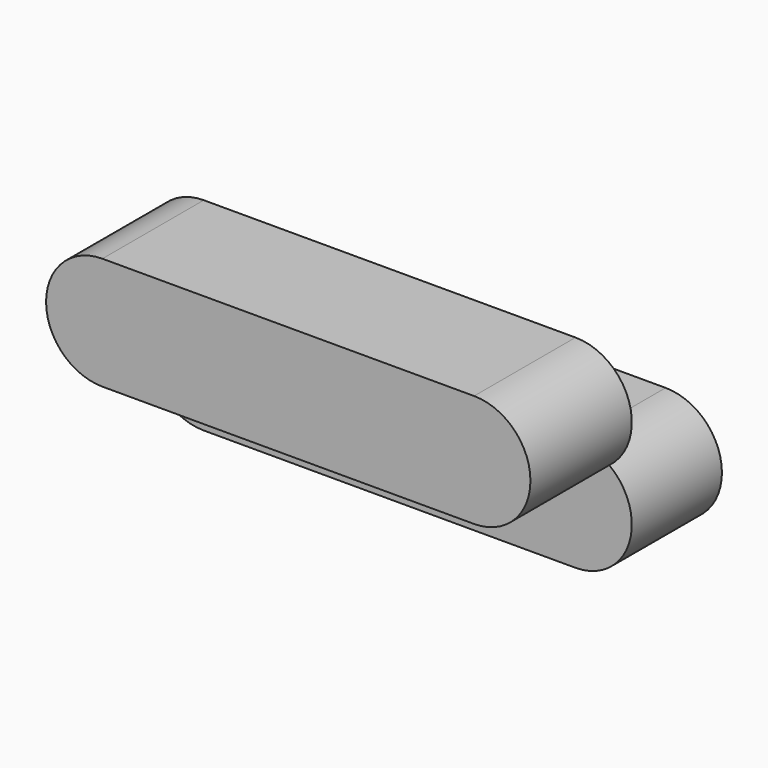
from build123d import *

# Parameters (mm, degrees)
EXTRUDE006_DEPTH = 2
EXTRUDE005_DEPTH = 2.25


with BuildPart() as extrude006:
    # Sketch006 → Extrude006 (new body)
    with BuildSketch(Plane.XZ):
        with BuildLine():
            ThreePointArc((16.9, 15.75), (15.9, 14.75), (16.9, 13.75))
            Line((16.9, 13.75), (23.5, 13.75))
            ThreePointArc((23.5, 13.75), (24.5, 14.75), (23.5, 15.75))
            Line((23.5, 15.75), (16.9, 15.75))
        make_face()
    extrude(amount=EXTRUDE006_DEPTH)


with BuildPart() as extrude006_1:
    # Extrude006 placement: moved
    add(extrude006.part.moved(Location((0, 4, 0))))


with BuildPart() as obj1:
    # Sketch005 → Extrude005 (new body)
    with BuildSketch(Plane.XZ):
        with BuildLine():
            ThreePointArc((16.9, 17.35), (15.9, 16.35), (16.9, 15.35))
            Line((16.9, 15.35), (23.5, 15.35))
            ThreePointArc((23.5, 15.35), (24.5, 16.35), (23.5, 17.35))
            Line((23.5, 17.35), (16.9, 17.35))
        make_face()
    extrude(amount=EXTRUDE005_DEPTH)


with BuildPart() as obj1_1:
    # Extrude005 placement: moved
    add(obj1.part.moved(Location((0, 2, 0))))

    # Fusion008: union Extrude006
    add(extrude006_1.part)


with BuildPart() as obj1_2:
    # Fusion008 placement: moved
    add(obj1_1.part.moved(Location((0, 0.25, 0))))


solid = obj1_2.part
